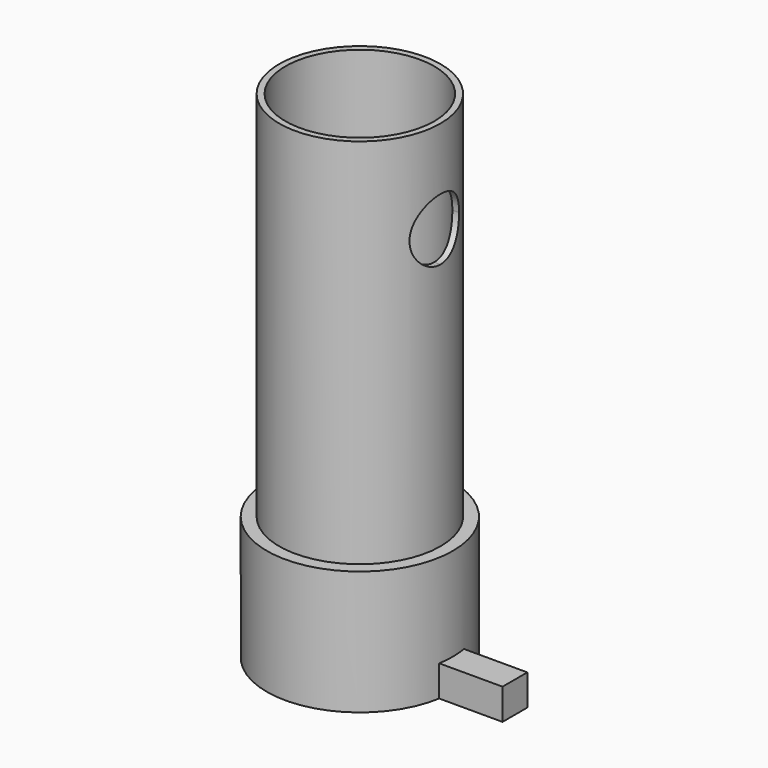
from build123d import *

# Parameters (mm, degrees)
F0_R     = 15
F0_R_2   = 12
F1_DEPTH = 20
F2_R     = 13
F2_R_2   = 12
F3_DEPTH = 60
F5_DEPTH = 5
F7_DEPTH = 25


with BuildPart() as f1:
    # F0 (on Top) → F1 (new body)
    with BuildSketch(Plane.XY):
        Circle(F0_R)
        Circle(F0_R_2, mode=Mode.SUBTRACT)
    extrude(amount=F1_DEPTH)

    # F2 (on face) → F3 (join)
    with BuildSketch(Plane.XY.offset(20)):
        Circle(F2_R)
        Circle(F2_R_2, mode=Mode.SUBTRACT)
    extrude(amount=F3_DEPTH)

    # F4 (on Top) → F5 (join)
    with BuildSketch(Plane.XY):
        with BuildLine():
            Line((25, 0), (15, 0))
            ThreePointArc((15, 0), (14.9474578418, -1.2543939042), (14.7901994577, -2.5))
            Line((14.7901994577, -2.5), (25, -2.5))
            Line((25, -2.5), (25, 0))
        make_face()
        with BuildLine():
            ThreePointArc((14.7901994577, 2.5), (14.9474578418, 1.2543939042), (15, 0))
            Line((15, 0), (25, 0))
            Line((25, 0), (25, 2.5))
            Line((25, 2.5), (14.7901994577, 2.5))
        make_face()
    extrude(amount=F5_DEPTH)

    # F6 (on Right) → F7 (cut)
    with BuildSketch(Plane.YZ):
        with BuildLine():
            ThreePointArc((0, 60), (3.5355339059, 61.4644660941), (5, 65))
            ThreePointArc((5, 65), (-3.5355339059, 68.5355339059), (0, 60))
        make_face()
    extrude(amount=F7_DEPTH, mode=Mode.SUBTRACT)


solid = f1.part
